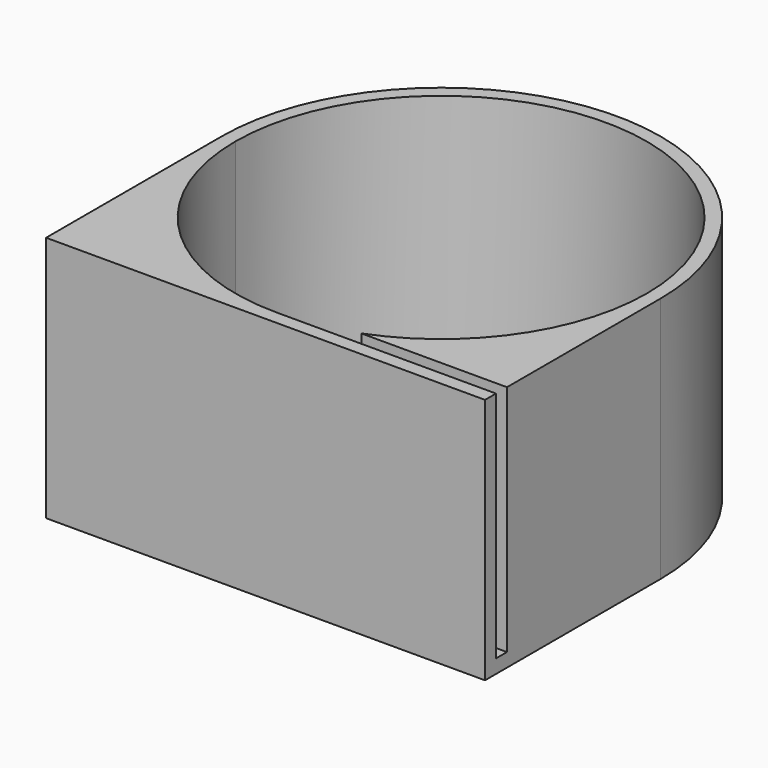
from build123d import *

# Parameters (mm, degrees)
F1_DEPTH = 57.15
F0_R     = 4.0005
F2_DEPTH = 3.175


with BuildPart() as f1:
    # F0 (on Top) → F1 (new body)
    with BuildSketch(Plane.XY):
        with BuildLine():
            Line((-464.808788, -8960.305408), (-464.808788, -8915.855408))
            ThreePointArc((-464.808788, -8915.855408), (-515.608788, -8865.055408), (-566.408788, -8915.855408))
            Line((-566.408788, -8915.855408), (-566.408788, -8966.655408))
            Line((-566.408788, -8966.655408), (-464.808788, -8966.655408))
            Line((-464.808788, -8966.655408), (-464.808788, -8963.480408))
            Line((-464.808788, -8963.480408), (-515.608788, -8963.480408))
            ThreePointArc((-515.608788, -8963.480408), (-549.284748, -8949.531368), (-563.233788, -8915.855408))
            ThreePointArc((-563.233788, -8915.855408), (-515.608788, -8868.230408), (-467.983788, -8915.855408))
            ThreePointArc((-467.983788, -8915.855408), (-476.350489, -8942.816984), (-498.510889, -8960.305408))
            Line((-498.510889, -8960.305408), (-464.808788, -8960.305408))
        make_face()
    extrude(amount=F1_DEPTH)

    # F0 (on Top) → F2 (join)
    with BuildSketch(Plane.XY):
        with BuildLine():
            Line((-464.808788, -8963.480408), (-464.808788, -8960.305408))
            Line((-464.808788, -8960.305408), (-498.510889, -8960.305408))
            ThreePointArc((-498.510889, -8960.305408), (-476.350489, -8942.816984), (-467.983788, -8915.855408))
            ThreePointArc((-467.983788, -8915.855408), (-515.608788, -8868.230408), (-563.233788, -8915.855408))
            ThreePointArc((-563.233788, -8915.855408), (-549.284748, -8949.531368), (-515.608788, -8963.480408))
            Line((-515.608788, -8963.480408), (-464.808788, -8963.480408))
        make_face()
        with Locations((-515.608788, -8915.855408)):
            Circle(F0_R, mode=Mode.SUBTRACT)
    extrude(amount=F2_DEPTH)


solid = f1.part
